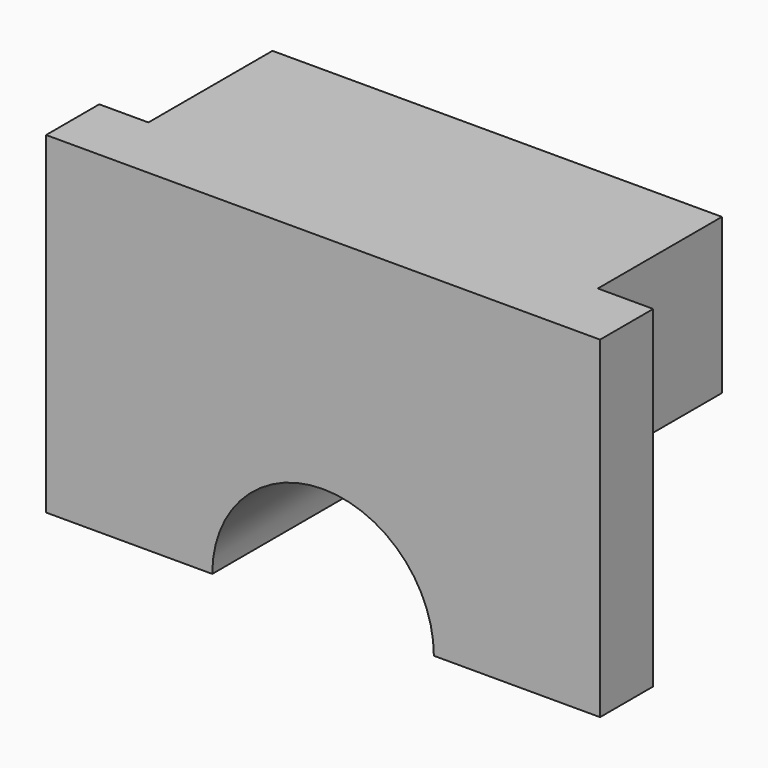
from build123d import *

# Parameters (mm, degrees)
F0_W      = 63.5
F0_H      = 38.1
F1_DEPTH  = 7.62
F2_DEPTH  = 17.78
F3_W      = 6.35
F3_H      = 38.1
F3_W_2    = 5.6318170339
F4_DEPTH  = 17.78
F5_W      = 16.51
F5_H      = 20.32
F6_DEPTH  = 27.92324
F7_W      = 16.51
F7_H      = 20.32
F8_DEPTH  = 28.68757
F9_R      = 12.7
F10_DEPTH = 30.26185


with BuildPart() as f1:
    # F0 (on Front) → F1 (new body)
    with BuildSketch(Plane.XZ):
        with Locations((-0.6209928542, -0.4360526333)):
            Rectangle(F0_W, F0_H)
    extrude(amount=F1_DEPTH)

    # F2 (add): a face of the model
    f2_faces = [f1.faces().sort_by_distance(p)[0] for p in [
        (-0.6209928542, 0, -0.4360526333),
    ]]
    extrude(f2_faces, amount=F2_DEPTH)

    # F3 (on Front) → F4 (cut)
    with BuildSketch(Plane.XZ):
        with Locations((27.9540071458, -0.4360526333)):
            Rectangle(F3_W, F3_H)
        with Locations((-29.5550843373, -0.4360526333)):
            Rectangle(F3_W_2, F3_H)
    extrude(amount=-F4_DEPTH, mode=Mode.SUBTRACT)

    # F5 (on Front) → F6 (cut)
    with BuildSketch(Plane.XZ):
        with Locations((-24.1159928542, -9.3260526333)):
            Rectangle(F5_W, F5_H)
    extrude(amount=-F6_DEPTH, mode=Mode.SUBTRACT)

    # F7 (on Front) → F8 (cut)
    with BuildSketch(Plane.XZ):
        with Locations((22.8740071458, -9.3260526333)):
            Rectangle(F7_W, F7_H)
    extrude(amount=-F8_DEPTH, mode=Mode.SUBTRACT)

    # F9 (on face) → F10 (cut)
    with BuildSketch(Plane.XZ.offset(7.62)):
        with Locations((-0.6209928542, -19.4860526333)):
            Circle(F9_R)
    extrude(amount=-F10_DEPTH, mode=Mode.SUBTRACT)


solid = f1.part
